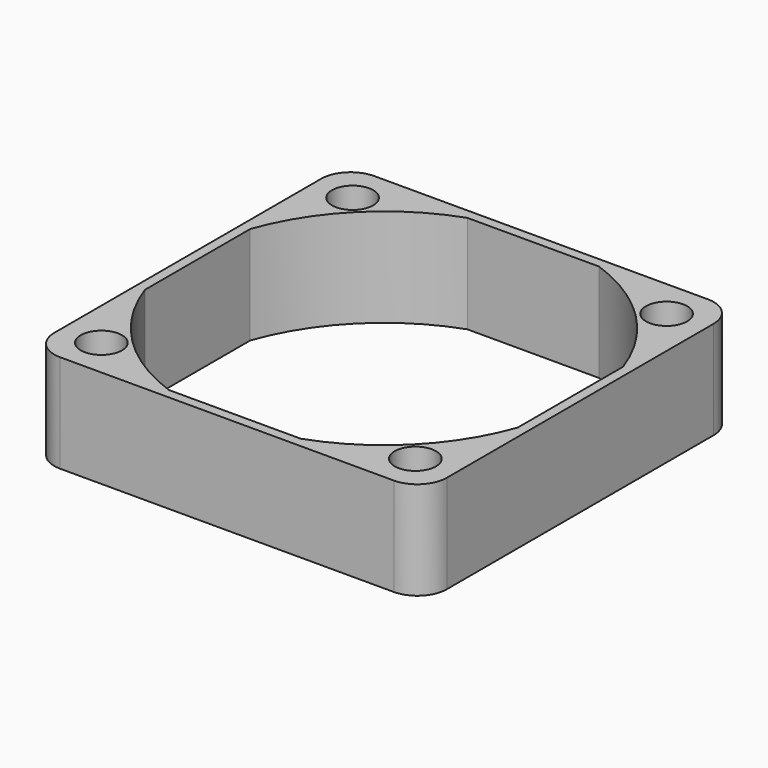
from build123d import *

# Parameters (mm, degrees)
F0_R     = 2.1
F1_DEPTH = 10


with BuildPart() as f1:
    # F0 (on Top) → F1 (new body)
    with BuildSketch(Plane.XY):
        with BuildLine():
            Line((17, 20), (-17, 20))
            ThreePointArc((-17, 20), (-19.12132, 19.12132), (-20, 17))
            Line((-20, 17), (-20, -17))
            ThreePointArc((-20, -17), (-19.12132, -19.12132), (-17, -20))
            Line((-17, -20), (17, -20))
            ThreePointArc((17, -20), (19.12132, -19.12132), (20, -17))
            Line((20, -17), (20, 17))
            ThreePointArc((20, 17), (19.12132, 19.12132), (17, 20))
        make_face()
        with Locations((-16, -16)):
            Circle(F0_R, mode=Mode.SUBTRACT)
        with Locations((16, -16)):
            Circle(F0_R, mode=Mode.SUBTRACT)
        with Locations((-16, 16)):
            Circle(F0_R, mode=Mode.SUBTRACT)
        with BuildLine():
            ThreePointArc((-19, 6.709881), (-14.248202, 14.248202), (-6.709881, 19))
            Line((-6.709881, 19), (6.709881, 19))
            ThreePointArc((6.709881, 19), (14.248202, 14.248202), (19, 6.709881))
            Line((19, 6.709881), (19, -6.709881))
            ThreePointArc((19, -6.709881), (14.248202, -14.248202), (6.709881, -19))
            Line((6.709881, -19), (-6.709881, -19))
            ThreePointArc((-6.709881, -19), (-14.248202, -14.248202), (-19, -6.709881))
            Line((-19, -6.709881), (-19, 6.709881))
        make_face(mode=Mode.SUBTRACT)
        with Locations((16, 16)):
            Circle(F0_R, mode=Mode.SUBTRACT)
    extrude(amount=F1_DEPTH)


solid = f1.part
